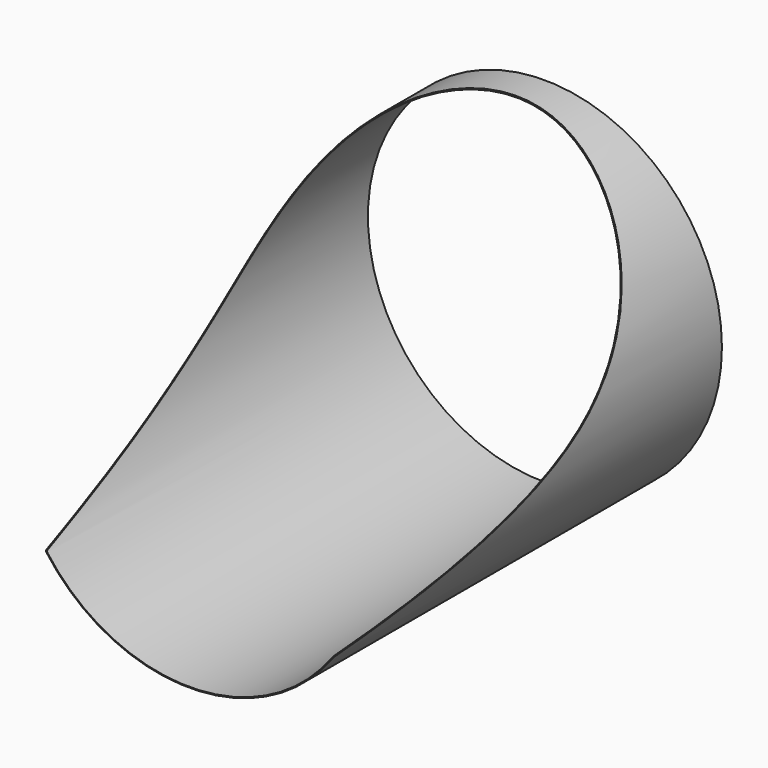
from build123d import *

# Parameters (mm, degrees)
F0_R     = 100
F0_R_2   = 99.5
F1_DEPTH = 50
F3_R     = 100
F3_R_2   = 99.5
F4_DEPTH = 200
F7_DEPTH = 222


with BuildPart() as f1:
    # F0 (on Front) → F1 (new body)
    with BuildSketch(Plane.XZ):
        Circle(F0_R)
        Circle(F0_R_2, mode=Mode.SUBTRACT)
    extrude(amount=F1_DEPTH)

    # F3 (on offset) → F4 (join)
    with BuildSketch(Plane.XZ.offset(50)):
        Circle(F3_R)
        Circle(F3_R_2, mode=Mode.SUBTRACT)
    extrude(amount=F4_DEPTH)

    # F6 (on offset) → F7 (cut)
    with BuildSketch(Plane.YZ.offset(100)):
        with BuildLine():
            add(Edge.make_bspline(
                [(-11.5396156907, 109.1770529747), (-37.40660144, 82.3029038002), (-74.6953320253, -14.6375859027), (-206.542273136, -48.3033385091), (-249.0700861085, -58.1255167434)],
                knots=[0, 0, 0, 0, 0.4686228188, 0.9205231007, 0.9205231007, 0.9205231007, 0.9205231007], degree=3))
            Line((-11.5396156907, 109.1770529747), (-268.6304729415, 109.1770529747))
            Line((-268.6304729415, 109.1770529747), (-269.2039608955, -62.7321824431))
            add(Edge.make_bspline(
                [(-249.0700861085, -58.1255167434), (-256.5495652028, -59.8529692417), (-263.3424316326, -61.3730310201), (-269.2039608955, -62.7321824431)],
                knots=[0.9205231007, 0.9205231007, 0.9205231007, 0.9205231007, 1, 1, 1, 1], degree=3))
        make_face()
        with BuildLine():
            ThreePointArc((-250.1155138016, -59.2780299485), (-249.7733014387, -58.5380431181), (-249.0700861085, -58.1255167434))
            add(Edge.make_bspline(
                [(-249.0700861085, -58.1255167434), (-256.5495652028, -59.8529692417), (-263.3424316326, -61.3730310201), (-269.2039608955, -62.7321824431)],
                knots=[0.9205231007, 0.9205231007, 0.9205231007, 0.9205231007, 1, 1, 1, 1], degree=3))
            Line((-269.2039608955, -62.7321824431), (-254.4201612473, -60.6556199491))
            Line((-254.4201612473, -60.6556199491), (-250.1155138016, -59.2780299485))
        make_face()
    extrude(amount=-F7_DEPTH, mode=Mode.SUBTRACT)


solid = f1.part
